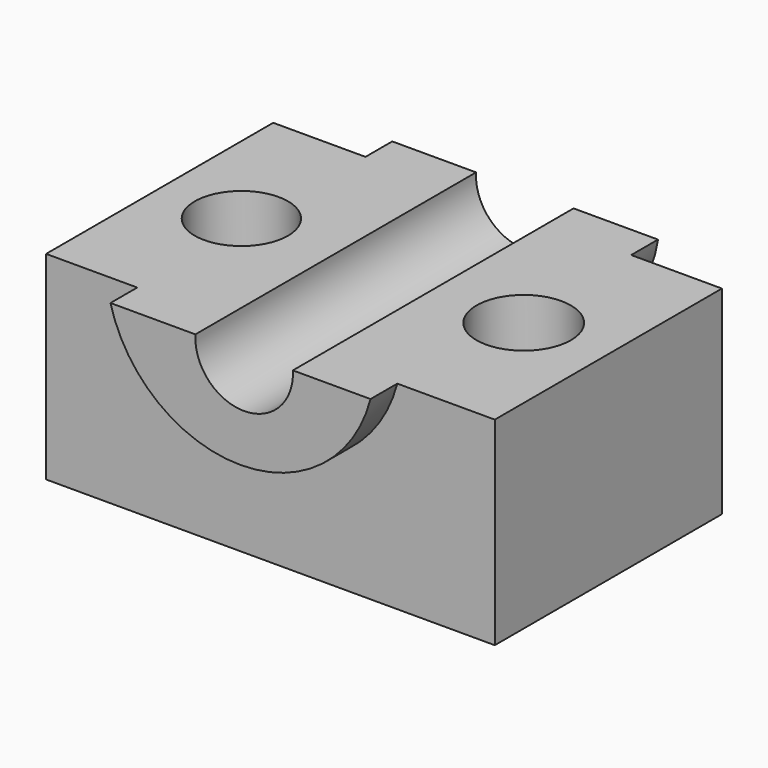
from build123d import *

# Parameters (mm, degrees)
F0_W      = 102.14658
F0_H      = 79.865314
F1_DEPTH  = 45.212
F3_DEPTH  = 7.62
F5_DEPTH  = 7.62
F8_DEPTH  = 240.792
F9_R      = 10.614666
F9_R_2    = 10.738577
F10_DEPTH = 83.566


with BuildPart() as f1:
    # F0 (on Top) → F1 (new body)
    with BuildSketch(Plane.XY):
        Rectangle(F0_W, F0_H)
        Rectangle(F0_W, F0_H)
    extrude(amount=F1_DEPTH)

    # F2 (on face) → F3 (cut)
    with BuildSketch(Plane(origin=(0, 39.932657, 0), x_dir=(-1, 0, 0), z_dir=(0, 1, 0))):
        with BuildLine():
            ThreePointArc((30.067937, 45.212), (-0.178194, 19.253555), (-30.424325, 45.212))
            Line((-30.424325, 45.212), (-51.07329, 45.212))
            Line((-51.07329, 45.212), (-51.07329, 0))
            Line((-51.07329, 0), (51.07329, 0))
            Line((51.07329, 0), (51.07329, 45.212))
            Line((51.07329, 45.212), (30.067937, 45.212))
        make_face()
    extrude(amount=-F3_DEPTH, mode=Mode.SUBTRACT)

    # F4 (on face) → F5 (cut)
    with BuildSketch(Plane.XZ.offset(39.932657)):
        with BuildLine():
            ThreePointArc((28.876837, 45.212), (-0.72209, 22.375665), (-30.321017, 45.212))
            Line((-30.321017, 45.212), (-51.07329, 45.212))
            Line((-51.07329, 45.212), (-51.07329, 0))
            Line((-51.07329, 0), (51.07329, 0))
            Line((51.07329, 0), (51.07329, 45.212))
            Line((51.07329, 45.212), (28.876837, 45.212))
        make_face()
    extrude(amount=-F5_DEPTH, mode=Mode.SUBTRACT)

    # F7 (on face) → F8 (cut)
    with BuildSketch(Plane.XZ.offset(39.932657)):
        with BuildLine():
            Line((11.198889, 45.212), (-10.991339, 45.212))
            ThreePointArc((-10.991339, 45.212), (0.103775, 33.44965), (11.198889, 45.212))
        make_face()
    extrude(amount=-F8_DEPTH, mode=Mode.SUBTRACT)

    # F9 (on face) → F10 (cut)
    with BuildSketch(Plane.XY.offset(45.212)):
        with Locations((-32.461744, 0)):
            Circle(F9_R)
        with Locations((31.800803, 0)):
            Circle(F9_R_2)
    extrude(amount=-F10_DEPTH, mode=Mode.SUBTRACT)


solid = f1.part
